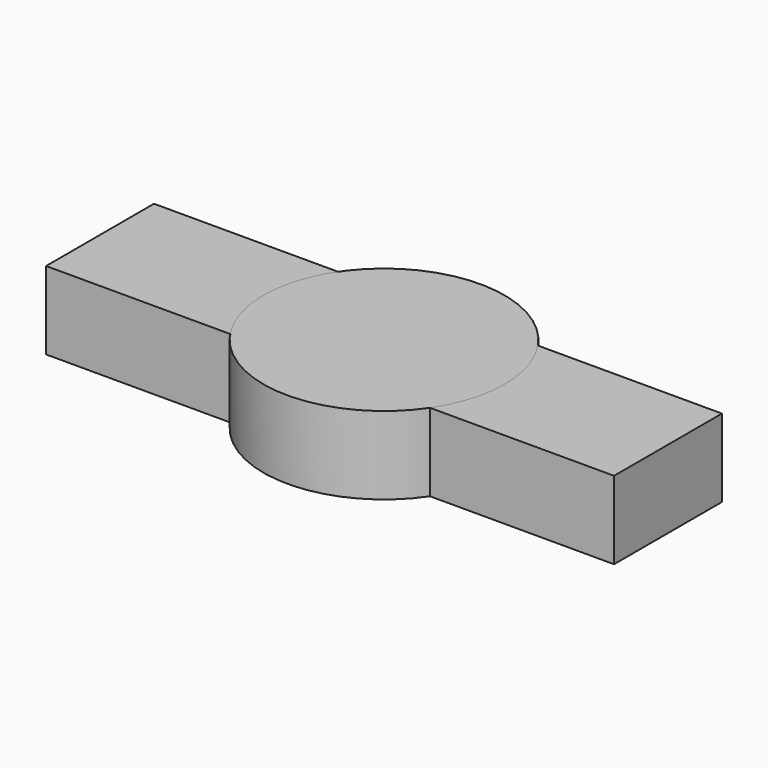
from build123d import *

# Parameters (mm, degrees)
F0_W     = 36.463573575
F0_H     = 8.656819351
F2_DEPTH = 5
F1_R     = 7.7397841414


with BuildPart() as f2:
    # F0 (on Top) → F2 (new body)
    with BuildSketch(Plane.XY):
        Rectangle(F0_W, F0_H)
    extrude(amount=F2_DEPTH)


with BuildPart() as f2b:
    # F1 (on Top) → F2, piece 2 (new body)
    with BuildSketch(Plane.XY):
        Circle(F1_R)
    extrude(amount=F2_DEPTH)


solid = Compound([f2.part, f2b.part])
